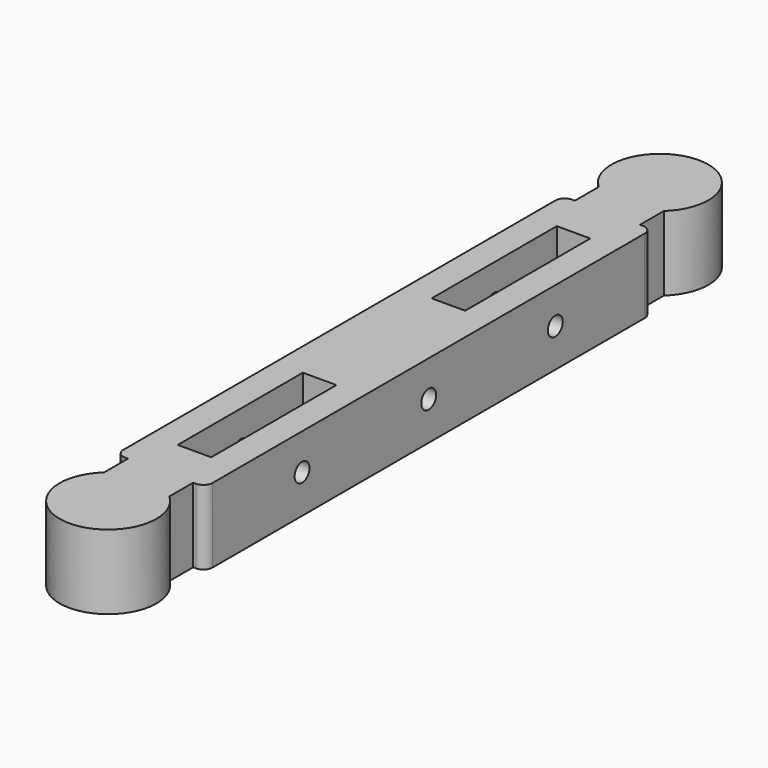
from build123d import *

# Parameters (mm, degrees)
F0_R     = 3.302
F1_DEPTH = 5.08
F3_DEPTH = 5.08
F4_W     = 6.096
F4_H     = 19.05
F5_DEPTH = 5.08
F6_R     = 0.635
F7_W     = 2.286
F7_H     = 10.668
F8_DEPTH = 25.4
F11_D    = 1.27


with BuildPart() as f1:
    # F0 (on Top) → F1 (new body)
    with BuildSketch(Plane.XY):
        Circle(F0_R)
    extrude(amount=F1_DEPTH)

    # F2 (on face) → F3 (join, through all)
    with BuildSketch(Plane(origin=(0, 0, 0), x_dir=(1, 0, 0), z_dir=(0, 0, -1))):
        with BuildLine():
            ThreePointArc((2.2225, -2.442068), (0, -3.302), (-2.2225, -2.442068))
            Line((-2.2225, -2.442068), (-2.2225, -4.474068))
            Line((-2.2225, -4.474068), (2.2225, -4.474068))
            Line((2.2225, -4.474068), (2.2225, -2.442068))
        make_face()
    extrude(amount=-F3_DEPTH)

    # F4 (on Top) → F5 (join, through all)
    with BuildSketch(Plane.XY):
        with Locations((0, 13.999068)):
            Rectangle(F4_W, F4_H)
    extrude(amount=F5_DEPTH)

    # F6
    f6_edges = [f1.edges().sort_by_distance(p)[0] for p in [
        (3.048, 4.474068, 2.54),
        (-3.048, 4.474068, 2.54),
    ]]
    fillet(f6_edges, radius=F6_R)

    # F7 (on face) → F8 (cut)
    with BuildSketch(Plane.XY.offset(5.08)):
        with Locations((0, 12.7)):
            Rectangle(F7_W, F7_H)
    extrude(amount=-F8_DEPTH, mode=Mode.SUBTRACT)

    # F9: F1 across face


with BuildPart() as f1_1:
    add(f1.part)
    add(f1.part.mirror(Plane(origin=(0, 23.524068, 2.54), x_dir=(-1, 0, 0), z_dir=(0, 1, 0))))

    # F11 (through all)
    with Locations(Plane.YZ.offset(3.048)):
        with Locations((12.729068, 2.622667), (23.524068, 2.622667), (34.319068, 2.622667)):
            Hole(F11_D / 2)


solid = f1_1.part
